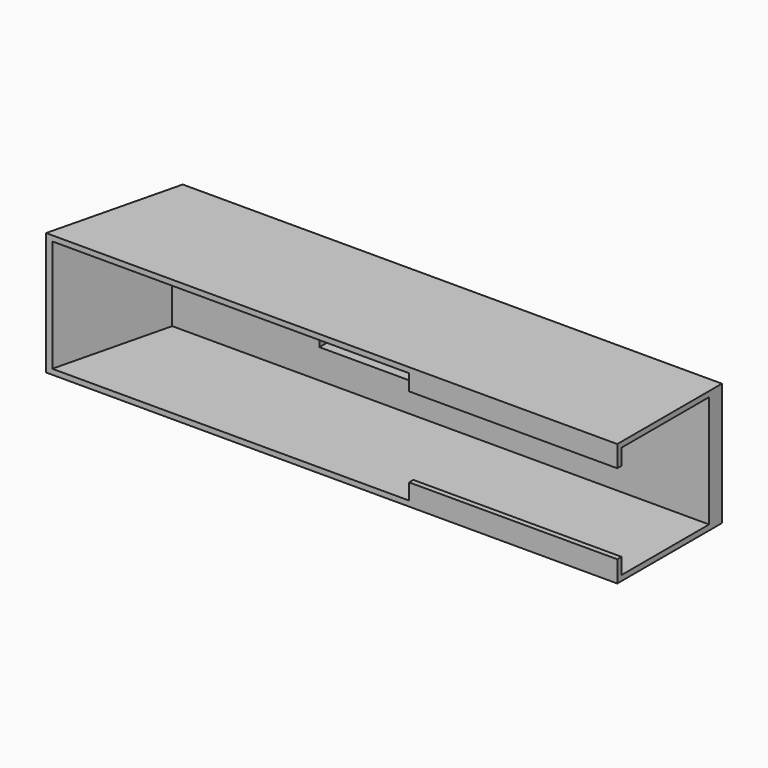
from build123d import *

# Parameters (mm, degrees)
F1_DEPTH = 11.5
F3_DEPTH = 10.5
F4_W     = 57.923077
F4_H     = 25.561713
F5_DEPTH = 7.5
F6_W     = 35
F6_H     = 5.974728
F7_DEPTH = 5


with BuildPart() as f1:
    # F0 (on Top) → F1 (new body, symmetric)
    with BuildSketch(Plane.XY):
        Polygon((52.666136, 19.229225), (-48.333864, 19.229225), (-54.333864, -5.270775), (52.666136, -5.270775), align=None)
    extrude(amount=F1_DEPTH, both=True)

    # F2 (on Top) → F3 (cut, symmetric)
    with BuildSketch(Plane.XY):
        Polygon((13.666136, -4.270775), (53.666136, -4.270775), (53.666136, 16.229225), (-47.907322, 16.229225), (-53.662424, -7.270775), (13.666136, -7.270775), align=None)
    extrude(amount=F3_DEPTH, both=True, mode=Mode.SUBTRACT)

    # F4 (on Top) → F5 (cut, symmetric)
    with BuildSketch(Plane.XY):
        with Locations((33.046458, -3.861708)):
            Rectangle(F4_W, F4_H)
    extrude(amount=F5_DEPTH, both=True, mode=Mode.SUBTRACT)

    # F6 (on Top) → F7 (cut, symmetric)
    with BuildSketch(Plane.XY):
        with Locations((-2.833864, 15.241861)):
            Rectangle(F6_W, F6_H)
    extrude(amount=F7_DEPTH, both=True, mode=Mode.SUBTRACT)


solid = f1.part
